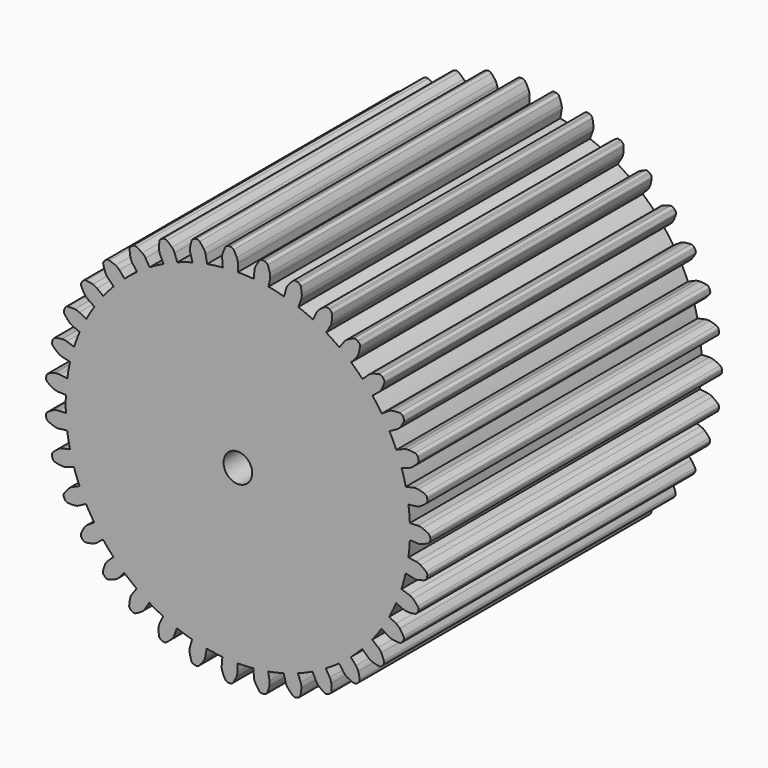
from build123d import *

# Parameters (mm, degrees)
F4_R     = 23.988889
F5_DEPTH = 50.8
F6_COUNT = 35
F9_D     = 3.9878


with BuildPart() as f3:
    # F2 (on offset) → F3 section 0
    with BuildSketch(Plane.XZ.offset(50.8)):
        with BuildLine():
            Line((-2.186149, 24.9878), (-2.090769, 23.897604))
            ThreePointArc((-2.090769, 23.897604), (-1.046381, 23.966057), (0, 23.988889))
            Line((0, 23.988889), (0, 25.083249))
            ThreePointArc((0, 25.083249), (-0.035667, 25.41787), (-0.141066, 25.737454))
            ThreePointArc((-0.141066, 25.737454), (-0.349828, 26.157055), (-0.58897, 26.560116))
            ThreePointArc((-0.58897, 26.560116), (-0.779084, 26.734331), (-1.030241, 26.792758))
            Line((-1.030241, 26.792758), (-1.169626, 26.788848))
            Line((-1.169626, 26.788848), (-1.308822, 26.780595))
            ThreePointArc((-1.308822, 26.780595), (-1.553931, 26.7005), (-1.728138, 26.510379))
            ThreePointArc((-1.728138, 26.510379), (-1.93124, 26.088009), (-2.102638, 25.65181))
            ThreePointArc((-2.102638, 25.65181), (-2.179782, 25.324256), (-2.186149, 24.9878))
        make_face()
    # F0 (on Front) → F3 section 1
    with BuildSketch(Plane.XZ):
        with BuildLine():
            ThreePointArc((-2.090769, 23.897604), (-1.046381, 23.966057), (0, 23.988889))
            Line((0, 23.988889), (0, 25.083249))
            ThreePointArc((0, 25.083249), (-0.035667, 25.41787), (-0.141066, 25.737454))
            ThreePointArc((-0.141066, 25.737454), (-0.349828, 26.157055), (-0.58897, 26.560116))
            ThreePointArc((-0.58897, 26.560116), (-0.779084, 26.734331), (-1.030241, 26.792758))
            Line((-1.030241, 26.792758), (-1.169626, 26.788848))
            Line((-1.169626, 26.788848), (-1.308822, 26.780595))
            ThreePointArc((-1.308822, 26.780595), (-1.553931, 26.7005), (-1.728138, 26.510379))
            ThreePointArc((-1.728138, 26.510379), (-1.93124, 26.088009), (-2.102638, 25.65181))
            ThreePointArc((-2.102638, 25.65181), (-2.179782, 25.324256), (-2.186149, 24.9878))
            Line((-2.186149, 24.9878), (-2.090769, 23.897604))
        make_face()
    loft()


with BuildPart() as f5:
    # F4 (on Front) → F5 (new body, through all)
    with BuildSketch(Plane.XZ):
        Circle(F4_R)
    extrude(amount=F5_DEPTH)


with BuildPart() as f6_1:
    # F6: instance of F3
    add(f3.part.rotate(Axis((0, 0, 0), (0, 1, 0)), 1 * 360 / F6_COUNT))


with BuildPart() as f6_2:
    # F6: instance of F3
    add(f3.part.rotate(Axis((0, 0, 0), (0, 1, 0)), 2 * 360 / F6_COUNT))


with BuildPart() as f6_3:
    # F6: instance of F3
    add(f3.part.rotate(Axis((0, 0, 0), (0, 1, 0)), 3 * 360 / F6_COUNT))


with BuildPart() as f6_4:
    # F6: instance of F3
    add(f3.part.rotate(Axis((0, 0, 0), (0, 1, 0)), 4 * 360 / F6_COUNT))


with BuildPart() as f6_5:
    # F6: instance of F3
    add(f3.part.rotate(Axis((0, 0, 0), (0, 1, 0)), 5 * 360 / F6_COUNT))


with BuildPart() as f6_6:
    # F6: instance of F3
    add(f3.part.rotate(Axis((0, 0, 0), (0, 1, 0)), 6 * 360 / F6_COUNT))


with BuildPart() as f6_7:
    # F6: instance of F3
    add(f3.part.rotate(Axis((0, 0, 0), (0, 1, 0)), 7 * 360 / F6_COUNT))


with BuildPart() as f6_8:
    # F6: instance of F3
    add(f3.part.rotate(Axis((0, 0, 0), (0, 1, 0)), 8 * 360 / F6_COUNT))


with BuildPart() as f6_9:
    # F6: instance of F3
    add(f3.part.rotate(Axis((0, 0, 0), (0, 1, 0)), 9 * 360 / F6_COUNT))


with BuildPart() as f6_10:
    # F6: instance of F3
    add(f3.part.rotate(Axis((0, 0, 0), (0, 1, 0)), 10 * 360 / F6_COUNT))


with BuildPart() as f6_11:
    # F6: instance of F3
    add(f3.part.rotate(Axis((0, 0, 0), (0, 1, 0)), 11 * 360 / F6_COUNT))


with BuildPart() as f6_12:
    # F6: instance of F3
    add(f3.part.rotate(Axis((0, 0, 0), (0, 1, 0)), 12 * 360 / F6_COUNT))


with BuildPart() as f6_13:
    # F6: instance of F3
    add(f3.part.rotate(Axis((0, 0, 0), (0, 1, 0)), 13 * 360 / F6_COUNT))


with BuildPart() as f6_14:
    # F6: instance of F3
    add(f3.part.rotate(Axis((0, 0, 0), (0, 1, 0)), 14 * 360 / F6_COUNT))


with BuildPart() as f6_15:
    # F6: instance of F3
    add(f3.part.rotate(Axis((0, 0, 0), (0, 1, 0)), 15 * 360 / F6_COUNT))


with BuildPart() as f6_16:
    # F6: instance of F3
    add(f3.part.rotate(Axis((0, 0, 0), (0, 1, 0)), 16 * 360 / F6_COUNT))


with BuildPart() as f6_17:
    # F6: instance of F3
    add(f3.part.rotate(Axis((0, 0, 0), (0, 1, 0)), 17 * 360 / F6_COUNT))


with BuildPart() as f6_18:
    # F6: instance of F3
    add(f3.part.rotate(Axis((0, 0, 0), (0, 1, 0)), 18 * 360 / F6_COUNT))


with BuildPart() as f6_19:
    # F6: instance of F3
    add(f3.part.rotate(Axis((0, 0, 0), (0, 1, 0)), 19 * 360 / F6_COUNT))


with BuildPart() as f6_20:
    # F6: instance of F3
    add(f3.part.rotate(Axis((0, 0, 0), (0, 1, 0)), 20 * 360 / F6_COUNT))


with BuildPart() as f6_21:
    # F6: instance of F3
    add(f3.part.rotate(Axis((0, 0, 0), (0, 1, 0)), 21 * 360 / F6_COUNT))


with BuildPart() as f6_22:
    # F6: instance of F3
    add(f3.part.rotate(Axis((0, 0, 0), (0, 1, 0)), 22 * 360 / F6_COUNT))


with BuildPart() as f6_23:
    # F6: instance of F3
    add(f3.part.rotate(Axis((0, 0, 0), (0, 1, 0)), 23 * 360 / F6_COUNT))


with BuildPart() as f6_24:
    # F6: instance of F3
    add(f3.part.rotate(Axis((0, 0, 0), (0, 1, 0)), 24 * 360 / F6_COUNT))


with BuildPart() as f6_25:
    # F6: instance of F3
    add(f3.part.rotate(Axis((0, 0, 0), (0, 1, 0)), 25 * 360 / F6_COUNT))


with BuildPart() as f6_26:
    # F6: instance of F3
    add(f3.part.rotate(Axis((0, 0, 0), (0, 1, 0)), 26 * 360 / F6_COUNT))


with BuildPart() as f6_27:
    # F6: instance of F3
    add(f3.part.rotate(Axis((0, 0, 0), (0, 1, 0)), 27 * 360 / F6_COUNT))


with BuildPart() as f6_28:
    # F6: instance of F3
    add(f3.part.rotate(Axis((0, 0, 0), (0, 1, 0)), 28 * 360 / F6_COUNT))


with BuildPart() as f6_29:
    # F6: instance of F3
    add(f3.part.rotate(Axis((0, 0, 0), (0, 1, 0)), 29 * 360 / F6_COUNT))


with BuildPart() as f6_30:
    # F6: instance of F3
    add(f3.part.rotate(Axis((0, 0, 0), (0, 1, 0)), 30 * 360 / F6_COUNT))


with BuildPart() as f6_31:
    # F6: instance of F3
    add(f3.part.rotate(Axis((0, 0, 0), (0, 1, 0)), 31 * 360 / F6_COUNT))


with BuildPart() as f6_32:
    # F6: instance of F3
    add(f3.part.rotate(Axis((0, 0, 0), (0, 1, 0)), 32 * 360 / F6_COUNT))


with BuildPart() as f6_33:
    # F6: instance of F3
    add(f3.part.rotate(Axis((0, 0, 0), (0, 1, 0)), 33 * 360 / F6_COUNT))


with BuildPart() as f6_34:
    # F6: instance of F3
    add(f3.part.rotate(Axis((0, 0, 0), (0, 1, 0)), 34 * 360 / F6_COUNT))


with BuildPart() as f6_1_1:
    add(f6_1.part)

    # F7: union F5, F6_2, F6_3, F6_4, F6_5, F6_6, F6_7, F6_8, F6_9, F6_10, F6_11, F6_12, F6_13, F6_14, F6_15, F6_16, F6_17, F6_18, F6_19, F6_20, F6_21, F6_22, F6_23, F6_24, F6_25, F6_26, F6_28, F6_27, F6_29, F6_30, F6_31, F6_32, F6_33, F6_34, F3
    add(f5.part)
    add(f6_2.part)
    add(f6_3.part)
    add(f6_4.part)
    add(f6_5.part)
    add(f6_6.part)
    add(f6_7.part)
    add(f6_8.part)
    add(f6_9.part)
    add(f6_10.part)
    add(f6_11.part)
    add(f6_12.part)
    add(f6_13.part)
    add(f6_14.part)
    add(f6_15.part)
    add(f6_16.part)
    add(f6_17.part)
    add(f6_18.part)
    add(f6_19.part)
    add(f6_20.part)
    add(f6_21.part)
    add(f6_22.part)
    add(f6_23.part)
    add(f6_24.part)
    add(f6_25.part)
    add(f6_26.part)
    add(f6_28.part)
    add(f6_27.part)
    add(f6_29.part)
    add(f6_30.part)
    add(f6_31.part)
    add(f6_32.part)
    add(f6_33.part)
    add(f6_34.part)
    add(f3.part)

    # F9 (through all)
    with Locations(Plane.XZ.offset(50.8)):
        with Locations((0, 0)):
            Hole(F9_D / 2)


solid = f6_1_1.part
